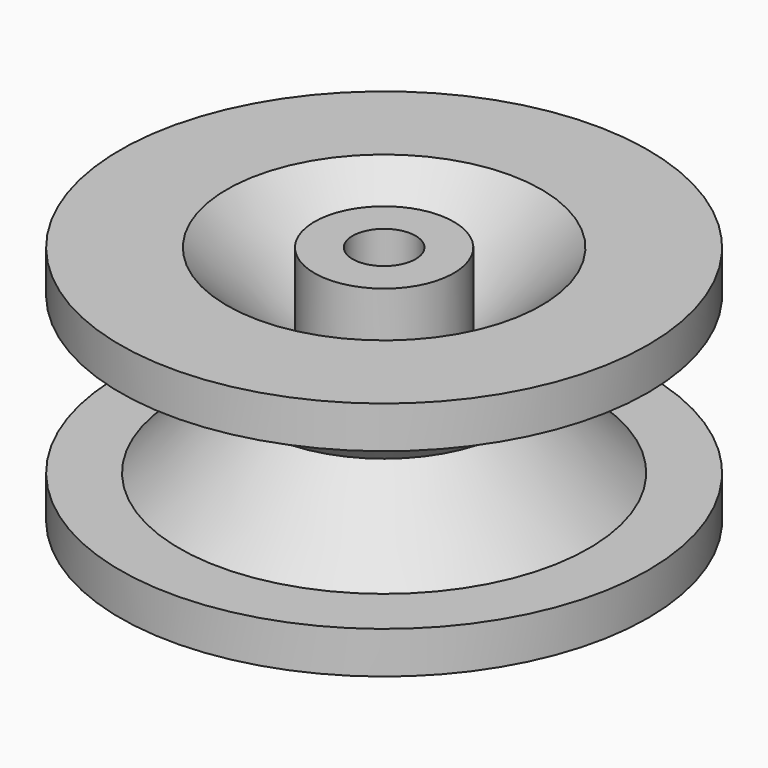
from build123d import *

# Parameters (mm, degrees)
F0_R     = 15.9004
F1_DEPTH = 7.239
F2_R     = 1.89865
F3_DEPTH = 14.479


with BuildPart() as f1:
    # F0 (on Top) → F1 (new body, symmetric)
    with BuildSketch(Plane.XY):
        Circle(F0_R)
    extrude(amount=F1_DEPTH, both=True)

    # F2 (on face) → F3 (cut, through all)
    with BuildSketch(Plane.XY.offset(7.239)):
        Circle(F2_R)
    extrude(amount=-F3_DEPTH, mode=Mode.SUBTRACT)

    # F4 (on Right) → F5 (revolve, cut)
    with BuildSketch(Plane.YZ):
        Polygon((20.401963, -4.7117), (20.401963, 4.7117), (12.3317, 4.7117), (7.62, 0), (12.3317, -4.7117), align=None)
        Polygon((11.294965, 9.063118), (4.195787, 9.063118), (4.195787, 1.963941), align=None)
    revolve(axis=Axis((0, 0, 4.896712), (0, 0, 1)), mode=Mode.SUBTRACT)


solid = f1.part
